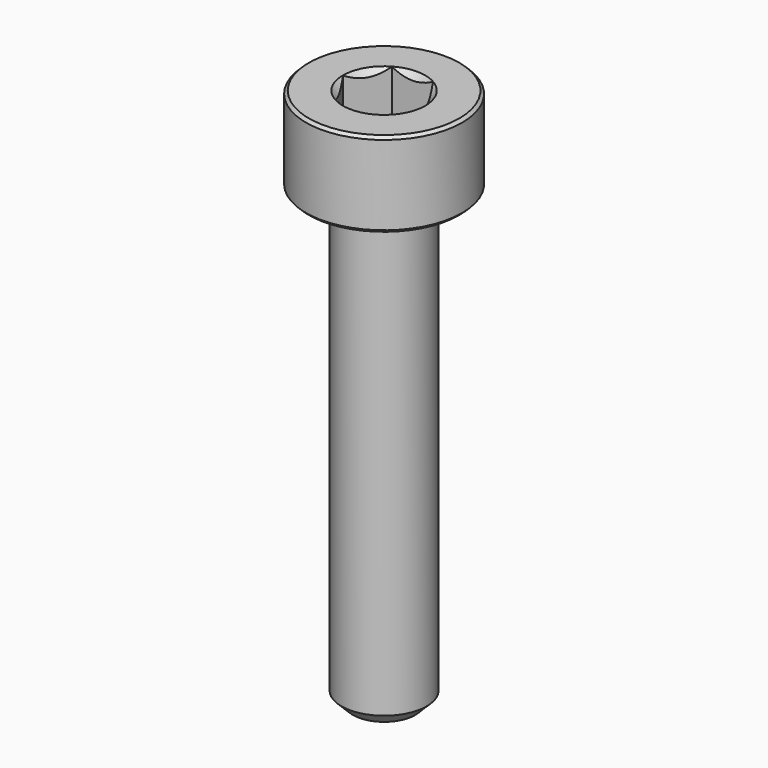
from build123d import *

# Parameters (mm, degrees)
SKETCH001_R     = 3.75
POCKET_DEPTH    = 9.70192
CHAMFER_SIZE    = 0.4
CHAMFER001_SIZE = 0.1


with BuildPart() as pocket:
    # Sketch003 → Revolution001 (revolve)
    with BuildSketch(Plane.XZ):
        Polygon((0, 0.29908), (2.75, 1.3), (2.75, 10), (0, 10), align=None)
    revolve(axis=Axis((0, 0, 0), (0, 0, 1)))

    # Sketch001 → Pocket (cut, through all)
    with BuildSketch(Plane(origin=(0, 0, 10), x_dir=(-1, 0, 0), z_dir=(0, 0, 1))):
        Circle(SKETCH001_R)
        Polygon((-0.721688, 1.25), (0.721688, 1.25), (1.443376, 0), (0.721688, -1.25), (-0.721688, -1.25), (-1.443376, 0), align=None, mode=Mode.SUBTRACT)
    extrude(amount=-POCKET_DEPTH, mode=Mode.SUBTRACT)


with BuildPart() as chamfer001:
    # Sketch → Revolution (revolve)
    with BuildSketch(Plane.XZ):
        Polygon((1.45, 3), (2.75, 3), (2.75, 0), (1.5, 0), (1.5, -16), (0, -16), (0, 1.549999), align=None)
    revolve(axis=Axis((0, 0, 0), (0, 0, 1)))

    # Cut: cut Pocket
    add(pocket.part, mode=Mode.SUBTRACT)

    # Chamfer
    chamfer_edges = [chamfer001.edges().sort_by_distance(p)[0] for p in [
        (-1.5, 0, -16),
    ]]
    chamfer(chamfer_edges, length=CHAMFER_SIZE)

    # Chamfer001
    chamfer001_edges = [chamfer001.edges().sort_by_distance(p)[0] for p in [
        (-2.75, 0, 0),
        (-2.75, 0, 3),
    ]]
    chamfer(chamfer001_edges, length=CHAMFER001_SIZE)


solid = chamfer001.part
